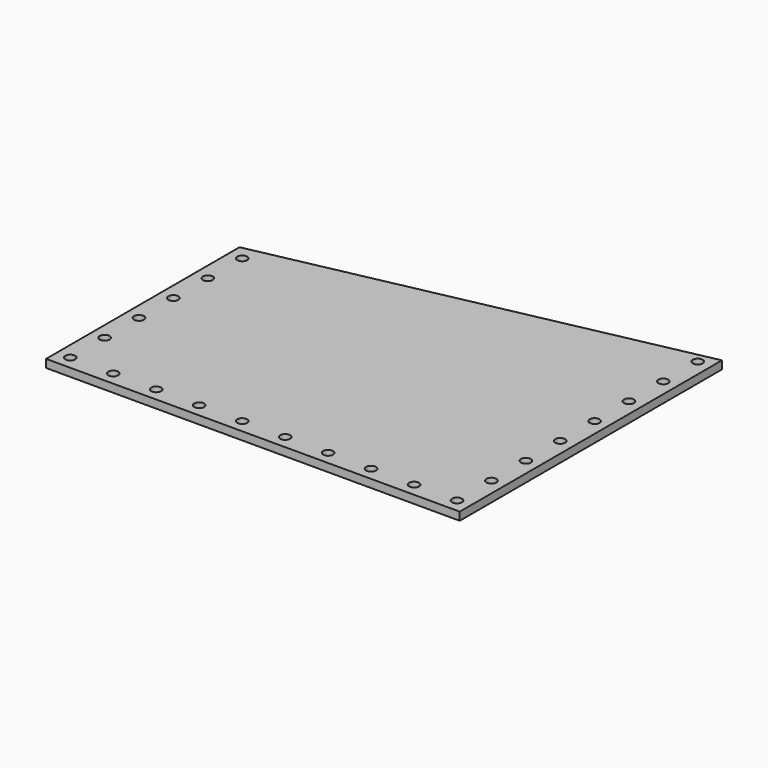
from build123d import *

# Parameters (mm, degrees)
F0_R     = 1.85
F1_DEPTH = 3


with BuildPart() as f1:
    # F0 (on Top) → F1 (new body)
    with BuildSketch(Plane.XY):
        Polygon((-72, 35.5), (-72, -54.5), (82, -54.5), (82, 67.5), align=None)
        with Locations((-67, -49.5)):
            Circle(F0_R, mode=Mode.SUBTRACT)
        with Locations((-51, -49.5)):
            Circle(F0_R, mode=Mode.SUBTRACT)
        with Locations((-35, -49.5)):
            Circle(F0_R, mode=Mode.SUBTRACT)
        with Locations((-67, -33.5)):
            Circle(F0_R, mode=Mode.SUBTRACT)
        with Locations((-19, -49.5)):
            Circle(F0_R, mode=Mode.SUBTRACT)
        with Locations((-3, -49.5)):
            Circle(F0_R, mode=Mode.SUBTRACT)
        with Locations((-67, -17.5)):
            Circle(F0_R, mode=Mode.SUBTRACT)
        with Locations((-67, -1.5)):
            Circle(F0_R, mode=Mode.SUBTRACT)
        with Locations((13, -49.5)):
            Circle(F0_R, mode=Mode.SUBTRACT)
        with Locations((29, -49.5)):
            Circle(F0_R, mode=Mode.SUBTRACT)
        with Locations((45, -49.5)):
            Circle(F0_R, mode=Mode.SUBTRACT)
        with Locations((61, -49.5)):
            Circle(F0_R, mode=Mode.SUBTRACT)
        with Locations((77, -49.5)):
            Circle(F0_R, mode=Mode.SUBTRACT)
        with Locations((77, -33.5)):
            Circle(F0_R, mode=Mode.SUBTRACT)
        with Locations((77, -17.5)):
            Circle(F0_R, mode=Mode.SUBTRACT)
        with Locations((77, -1.5)):
            Circle(F0_R, mode=Mode.SUBTRACT)
        with Locations((-67, 14.5)):
            Circle(F0_R, mode=Mode.SUBTRACT)
        with Locations((-67, 30.5)):
            Circle(F0_R, mode=Mode.SUBTRACT)
        with Locations((77, 14.5)):
            Circle(F0_R, mode=Mode.SUBTRACT)
        with Locations((77, 30.5)):
            Circle(F0_R, mode=Mode.SUBTRACT)
        with Locations((77, 46.5)):
            Circle(F0_R, mode=Mode.SUBTRACT)
        with Locations((77, 62.5)):
            Circle(F0_R, mode=Mode.SUBTRACT)
    extrude(amount=F1_DEPTH)


solid = f1.part
